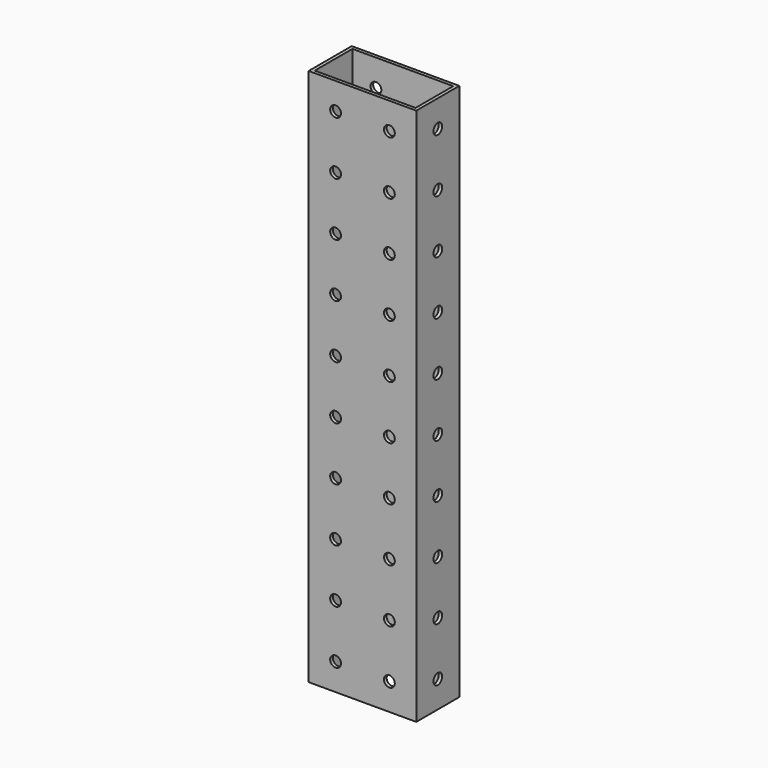
from build123d import *

# Parameters (mm, degrees)
F0_W     = 50.8
F0_H     = 25.4
F1_DEPTH = 254
F3_D     = 5.1054
F4_W     = 47.5996
F4_H     = 22.225
F5_DEPTH = 254
F7_D     = 5.1054


with BuildPart() as f1:
    # F0 (on Top) → F1 (new body)
    with BuildSketch(Plane.XY):
        with Locations((-43.475499, 46.040844)):
            Rectangle(F0_W, F0_H)
    extrude(amount=F1_DEPTH)

    # F3 (through all)
    with Locations(Plane.XZ.offset(-33.340844)):
        with Locations((-56.175499, 165.1), (-56.175499, 88.9), (-56.175499, 139.7), (-56.175499, 114.3), (-30.775499, 165.1), (-30.775499, 114.3), (-30.775499, 12.7), (-30.775499, 63.5), (-56.175499, 38.1), (-56.175499, 63.5), (-30.775499, 38.1), (-30.775499, 88.9), (-56.175499, 12.7), (-30.775499, 139.7), (-30.775499, 215.9), (-30.775499, 190.5), (-30.775499, 241.3), (-56.175499, 241.3), (-56.175499, 215.9), (-56.175499, 190.5)):
            Hole(F3_D / 2)

    # F4 (on face) → F5 (cut)
    with BuildSketch(Plane.XY.offset(254)):
        with Locations((-43.475499, 46.040844)):
            Rectangle(F4_W, F4_H)
    extrude(amount=-F5_DEPTH, mode=Mode.SUBTRACT)

    # F7 (through all)
    with Locations(Plane(origin=(-68.875499, 0, 0), x_dir=(0, -1, 0), z_dir=(-1, 0, 0))):
        with Locations((-46.040844, 241.3), (-46.040844, 139.7), (-46.040844, 165.1), (-46.040844, 88.9), (-46.040844, 114.3), (-46.040844, 63.5), (-46.040844, 190.5), (-46.040844, 215.9), (-46.040844, 38.1), (-20.640844, 241.3), (-46.040844, 12.7)):
            Hole(F7_D / 2)


solid = f1.part
